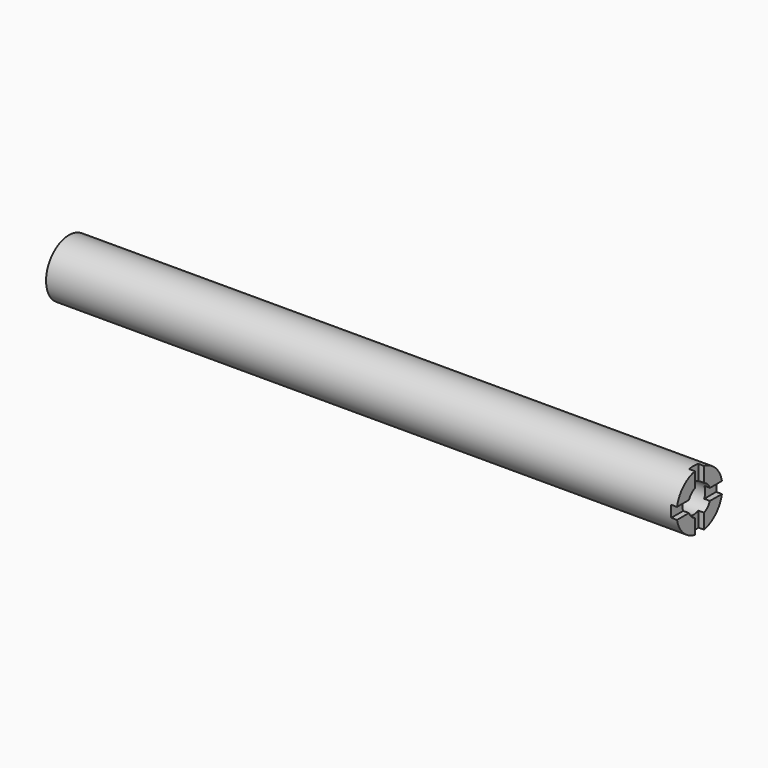
from build123d import *

# Parameters (mm, degrees)
F0_R     = 12.7
F1_DEPTH = 279.4
F2_R     = 6.35
F3_DEPTH = 25.4
F4_W     = 5.08
F4_H     = 16.933925
F4_W_2   = 16.933925
F4_H_2   = 5.08
F4_H_3   = 16.933926
F4_W_3   = 16.933926
F5_DEPTH = 2.54


with BuildPart() as f1:
    # F0 (on Right) → F1 (new body)
    with BuildSketch(Plane.YZ):
        Circle(F0_R)
    extrude(amount=-F1_DEPTH)

    # F2 (on face) → F3 (cut)
    with BuildSketch(Plane.YZ):
        Circle(F2_R)
    extrude(amount=-F3_DEPTH, mode=Mode.SUBTRACT)

    # F4 (on Right) → F5 (cut)
    with BuildSketch(Plane.YZ):
        with Locations((0, 13.08735)):
            Rectangle(F4_W, F4_H)
        with Locations((13.016762, 0)):
            Rectangle(F4_W_2, F4_H_2)
        with Locations((0, -11.903377)):
            Rectangle(F4_W, F4_H_3)
        with Locations((-12.440688, 0)):
            Rectangle(F4_W_3, F4_H_2)
    extrude(amount=-F5_DEPTH, mode=Mode.SUBTRACT)


solid = f1.part
